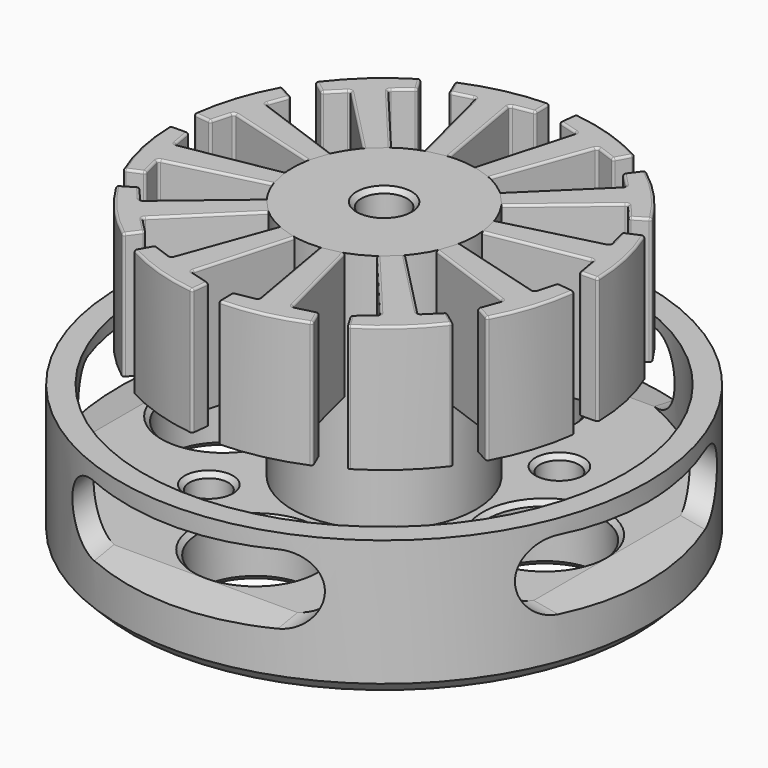
from build123d import *

# Parameters (mm, degrees)
F0_R      = 11.5
F1_DEPTH  = 6
F3_SIZE   = 0.5
F4_R      = 10.5
F5_DEPTH  = 3.5
F2_R      = 1
F6_DEPTH  = 6.001
F7_R      = 2.5
F8_DEPTH  = 6.001
F9_R      = 0.85
F10_DEPTH = 6.001
F11_SIZE  = 0.2
F12_R     = 4
F13_DEPTH = 13
F14_DEPTH = 13.001
F15_SIZE  = 0.2
F17_DEPTH = 5.5
F22_DEPTH = 5
F26_DEPTH = 5
F30_DEPTH = 5
F34_DEPTH = 5
F35_R     = 0.1
F35_2_R   = 0.1
F35_3_R   = 0.1
F35_4_R   = 0.1
F35_5_R   = 0.1
F35_6_R   = 0.1
F35_7_R   = 0.1
F35_8_R   = 0.1
F35_9_R   = 0.1
F35_10_R  = 0.1
F35_11_R  = 0.1
F35_12_R  = 0.1


with BuildPart() as f1:
    # F0 (on Top) → F1 (new body)
    with BuildSketch(Plane.XY):
        Circle(F0_R)
    extrude(amount=F1_DEPTH)

    # F3
    f3_edges = [f1.edges().sort_by_distance(p)[0] for p in [
        (-11.5, 0, 0),
    ]]
    chamfer(f3_edges, length=F3_SIZE)

    # F4 (on face) → F5 (cut)
    with BuildSketch(Plane.XY.offset(6)):
        Circle(F4_R)
    extrude(amount=-F5_DEPTH, mode=Mode.SUBTRACT)

    # F2 (on face) → F6 (cut, through all)
    with BuildSketch(Plane(origin=(0, 0, 0), x_dir=(1, 0, 0), z_dir=(0, 0, -1))):
        Circle(F2_R)
    extrude(amount=-F6_DEPTH, mode=Mode.SUBTRACT)

    # F7 (on face) → F8 (cut, through all)
    with BuildSketch(Plane(origin=(0, 0, 0), x_dir=(1, 0, 0), z_dir=(0, 0, -1))):
        with Locations((0, 7)):
            Circle(F7_R)
        with Locations((-7, 0)):
            Circle(F7_R)
        with Locations((0, -7)):
            Circle(F7_R)
        with Locations((7, 0)):
            Circle(F7_R)
    extrude(amount=-F8_DEPTH, mode=Mode.SUBTRACT)

    # F9 (on face) → F10 (cut, through all)
    with BuildSketch(Plane(origin=(0, 0, 0), x_dir=(1, 0, 0), z_dir=(0, 0, -1))):
        with Locations((-4.2426406871, 4.2426406871)):
            Circle(F9_R)
        with BuildLine():
            ThreePointArc((6.5068542495, 5.6568542495), (5.331573332, 6.4421518521), (5.0558134855, 5.0558134855))
            ThreePointArc((5.0558134855, 5.0558134855), (5.982135167, 4.8715566469), (6.5068542495, 5.6568542495))
        make_face()
        with BuildLine():
            ThreePointArc((3.6415999231, -3.6415999231), (3.9173597696, -5.0279382898), (5.0926406871, -4.2426406871))
            ThreePointArc((5.0926406871, -4.2426406871), (4.5679216046, -3.4573430845), (3.6415999231, -3.6415999231))
        make_face()
        with Locations((-5.6568542495, -5.6568542495)):
            Circle(F9_R)
    extrude(amount=-F10_DEPTH, mode=Mode.SUBTRACT)

    # F11
    f11_edges = [f1.edges().sort_by_distance(p)[0] for p in [
        (-1, 0, 0),
        (4.843681, 4.843681, 0),
        (4.5, 0, 0),
        (-2.5, -7, 0),
        (-5.092641, -4.242641, 0),
        (-9.5, 0, 0),
        (-2.5, 7, 0),
        (-9.5, 0, 2.5),
        (-5.092641, -4.242641, 2.5),
        (-2.5, 7, 2.5),
        (4.843681, 4.843681, 2.5),
        (4.5, 0, 2.5),
        (-2.5, -7, 2.5),
        (-6.506854, 5.656854, 0),
        (6.257895, -6.257895, 0),
        (6.257895, -6.257895, 2.5),
        (-6.506854, 5.656854, 2.5),
    ]]
    chamfer(f11_edges, length=F11_SIZE)

    # F12 (on face) → F13 (join)
    with BuildSketch(Plane(origin=(0, 0, 0), x_dir=(1, 0, 0), z_dir=(0, 0, -1))):
        Circle(F12_R)
    extrude(amount=-F13_DEPTH)

    # F2 (on face) → F14 (cut, through all)
    with BuildSketch(Plane(origin=(0, 0, 0), x_dir=(1, 0, 0), z_dir=(0, 0, -1))):
        Circle(F2_R)
    extrude(amount=-F14_DEPTH, mode=Mode.SUBTRACT)

    # F15
    f15_edges = [f1.edges().sort_by_distance(p)[0] for p in [
        (-1, 0, 0),
        (-1, 0, 13),
    ]]
    chamfer(f15_edges, length=F15_SIZE)

    # F21 (on offset) → F22 (cut)
    with BuildSketch(Plane(origin=(-11.8176930361, 0, -2.083778132), x_dir=(0, 1, 0), z_dir=(0.984807753, 0, 0.1736481777))):
        with BuildLine():
            Line((-4, 4.15), (4, 4.15))
            ThreePointArc((4, 4.15), (5.5, 5.65), (4, 7.15))
            Line((4, 7.15), (-4, 7.15))
            ThreePointArc((-4, 7.15), (-5.5, 5.65), (-4, 4.15))
        make_face()
    extrude(amount=F22_DEPTH, mode=Mode.SUBTRACT)

    # F25 (on offset) → F26 (cut)
    with BuildSketch(Plane(origin=(11.8176930361, 0, -2.083778132), x_dir=(0, -1, 0), z_dir=(-0.984807753, 0, 0.1736481777))):
        with BuildLine():
            Line((4, 7.15), (-4, 7.15))
            ThreePointArc((-4, 7.15), (-5.5, 5.65), (-4, 4.15))
            Line((-4, 4.15), (4, 4.15))
            ThreePointArc((4, 4.15), (5.5, 5.65), (4, 7.15))
        make_face()
    extrude(amount=F26_DEPTH, mode=Mode.SUBTRACT)

    # F29 (on offset) → F30 (cut)
    with BuildSketch(Plane(origin=(0, 11.8176930361, -2.083778132), x_dir=(-1, 0, 0), z_dir=(0, 0.984807753, -0.1736481777))):
        with BuildLine():
            Line((4, 7.15), (-4, 7.15))
            ThreePointArc((-4, 7.15), (-5.5, 5.65), (-4, 4.15))
            Line((-4, 4.15), (4, 4.15))
            ThreePointArc((4, 4.15), (5.5, 5.65), (4, 7.15))
        make_face()
    extrude(amount=-F30_DEPTH, mode=Mode.SUBTRACT)

    # F33 (on offset) → F34 (cut)
    with BuildSketch(Plane(origin=(0, -11.8176930361, -2.083778132), x_dir=(-1, 0, 0), z_dir=(0, 0.984807753, 0.1736481777))):
        with BuildLine():
            Line((-4, 4.15), (4, 4.15))
            ThreePointArc((4, 4.15), (5.5, 5.65), (4, 7.15))
            Line((4, 7.15), (-4, 7.15))
            ThreePointArc((-4, 7.15), (-5.5, 5.65), (-4, 4.15))
        make_face()
    extrude(amount=F34_DEPTH, mode=Mode.SUBTRACT)


with BuildPart() as f17:
    # F16 (on face) → F17 (new body)
    with BuildSketch(Plane.XY.offset(13)):
        with BuildLine():
            Line((-7.9774256232, 1.8979022856), (-3.8383343156, 0.7326026899))
            Line((-3.8383343156, 0.7326026899), (-3.5438690521, 1.6463624029))
            Line((-3.5438690521, 1.6463624029), (-7.5845473215, 3.1170490192))
            ThreePointArc((-7.5845473215, 3.1170490192), (-7.6409760858, 3.1687564551), (-7.6443145692, 3.2452202956))
            Line((-7.6443145692, 3.2452202956), (-7.3656331018, 4.0108913345))
            ThreePointArc((-7.3656331018, 4.0108913345), (-7.3658909937, 4.0799957713), (-7.4109006537, 4.1324325922))
            Line((-7.4109006537, 4.1324325922), (-7.9473912431, 4.4315880256))
            ThreePointArc((-7.9473912431, 4.4315880256), (-8.0239419572, 4.440292694), (-8.0839621066, 4.3919877799))
            ThreePointArc((-8.0839621066, 4.3919877799), (-8.7565475016, 2.8218568092), (-9.127280057, 1.1544517141))
            ThreePointArc((-9.127280057, 1.1544517141), (-9.1067574042, 1.0801913358), (-9.0395279067, 1.0425618561))
            Line((-9.0395279067, 1.0425618561), (-8.4293123647, 0.972183463))
            ThreePointArc((-8.4293123647, 0.972183463), (-8.3621549496, 0.9884736834), (-8.3215970119, 1.0444249423))
            Line((-8.3215970119, 1.0444249423), (-8.1007835512, 1.8287443388))
            ThreePointArc((-8.1007835512, 1.8287443388), (-8.053427667, 1.8888715756), (-7.9774256232, 1.8979022856))
        make_face()
    extrude(amount=-F17_DEPTH)

    # F35#2
    f35_2_edges = [f17.edges().sort_by_distance(p)[0] for p in [
        (-9.106757, 1.080191, 13),
        (-8.73442, 1.007373, 13),
        (-8.362155, 0.988474, 13),
        (-8.21119, 1.436585, 13),
        (-8.053428, 1.888872, 13),
        (-5.90788, 1.315252, 13),
        (-3.691102, 1.189483, 13),
        (-5.564208, 2.381706, 13),
        (-7.640976, 3.168756, 13),
        (-7.504974, 3.628056, 13),
        (-7.365891, 4.079996, 13),
        (-7.679146, 4.28201, 13),
        (-8.023942, 4.440293, 13),
        (-8.756548, 2.821857, 13),
    ]]
    fillet(f35_2_edges, radius=F35_2_R)


with BuildPart() as f17b:
    # F16 (on face) → F17, piece 2 (new body)
    with BuildSketch(Plane.XY.offset(13)):
        with BuildLine():
            Line((-3.8922618282, -0.3461428613), (-8.1269351662, -1.0928300253))
            ThreePointArc((-8.1269351662, -1.0928300253), (-8.2016576276, -1.0762644544), (-8.2427807593, -1.0117140678))
            Line((-8.2427807593, -1.0117140678), (-8.3842710484, -0.2092827634))
            ThreePointArc((-8.3842710484, -0.2092827634), (-8.4190466076, -0.1495655116), (-8.4842445271, -0.1266587226))
            Line((-8.4842445271, -0.1266587226), (-9.0984367232, -0.1358278123))
            ThreePointArc((-9.0984367232, -0.1358278123), (-9.1690839204, -0.1665647053), (-9.1969104375, -0.2384080628))
            ThreePointArc((-9.1969104375, -0.2384080628), (-8.9943209905, -1.9344740682), (-8.4816822539, -3.5638555167))
            ThreePointArc((-8.4816822539, -3.5638555167), (-8.426778926, -3.6179055644), (-8.3497417335, -3.616878901))
            Line((-8.3497417335, -3.616878901), (-7.7860903758, -3.3727206062))
            ThreePointArc((-7.7860903758, -3.3727206062), (-7.7360754584, -3.325034154), (-7.7289268835, -3.2562999736))
            Line((-7.7289268835, -3.2562999736), (-7.9298565153, -2.4666527212))
            ThreePointArc((-7.9298565153, -2.4666527212), (-7.9189087349, -2.3909030646), (-7.8576043893, -2.3450812184))
            Line((-7.8576043893, -2.3450812184), (-3.6903963705, -1.2847146175))
            Line((-3.6903963705, -1.2847146175), (-3.8922618282, -0.3461428613))
        make_face()
    extrude(amount=-F17_DEPTH)

    # F35
    f35_edges = [f17b.edges().sort_by_distance(p)[0] for p in [
        (-3.791329, -0.815429, 13),
        (-6.009598, -0.719486, 13),
        (-8.201658, -1.076264, 13),
        (-8.313526, -0.610498, 13),
        (-8.419047, -0.149566, 13),
        (-8.791341, -0.131243, 13),
        (-9.169084, -0.166565, 13),
        (-8.994321, -1.934474, 13),
        (-8.426779, -3.617906, 13),
        (-8.067916, -3.4948, 13),
        (-7.736075, -3.325034, 13),
        (-7.829392, -2.861476, 13),
        (-7.918909, -2.390903, 13),
        (-5.774, -1.814898, 13),
    ]]
    fillet(f35_edges, radius=F35_R)


with BuildPart() as f17c:
    # F16 (on face) → F17, piece 3 (new body)
    with BuildSketch(Plane.XY.offset(13)):
        with BuildLine():
            Line((-3.1977261908, -2.2458994254), (-6.4917172962, -5.009886147))
            ThreePointArc((-6.4917172962, -5.009886147), (-6.5647116314, -5.0329011725), (-6.6326005015, -4.9975604637))
            Line((-6.6326005015, -4.9975604637), (-7.1563503384, -4.3733797139))
            ThreePointArc((-7.1563503384, -4.3733797139), (-7.2163254821, -4.3390508364), (-7.2842419311, -4.351811935))
            Line((-7.2842419311, -4.351811935), (-7.8115634308, -4.6668486976))
            ThreePointArc((-7.8115634308, -4.6668486976), (-7.8573772518, -4.7287912264), (-7.8455540438, -4.8049226576))
            ThreePointArc((-7.8455540438, -4.8049226576), (-6.8220734334, -6.1724641813), (-5.5634245404, -7.3272305398))
            ThreePointArc((-5.5634245404, -7.3272305398), (-5.4888518398, -7.3465875902), (-5.4226490057, -7.3071798774))
            Line((-5.4226490057, -7.3071798774), (-5.0565917585, -6.8139069128))
            ThreePointArc((-5.0565917585, -6.8139069128), (-5.0371207956, -6.747601775), (-5.0652970383, -6.6845019412))
            Line((-5.0652970383, -6.6845019412), (-5.63413083, -6.1011121765))
            ThreePointArc((-5.63413083, -6.1011121765), (-5.6625246024, -6.0300371594), (-5.6323444048, -5.9597021037))
            Line((-5.6323444048, -5.9597021037), (-2.5536196982, -2.9577936806))
            Line((-2.5536196982, -2.9577936806), (-3.1977261908, -2.2458994254))
        make_face()
    extrude(amount=-F17_DEPTH)

    # F35#12
    f35_12_edges = [f17c.edges().sort_by_distance(p)[0] for p in [
        (-2.875673, -2.601847, 13),
        (-4.844722, -3.627893, 13),
        (-6.564712, -5.032901, 13),
        (-6.894475, -4.68547, 13),
        (-7.216325, -4.339051, 13),
        (-7.547903, -4.50933, 13),
        (-7.857377, -4.728791, 13),
        (-6.822073, -6.172464, 13),
        (-5.488852, -7.346588, 13),
        (-5.23962, -7.060543, 13),
        (-5.037121, -6.747602, 13),
        (-5.349714, -6.392807, 13),
        (-5.662525, -6.030037, 13),
        (-4.092982, -4.458748, 13),
    ]]
    fillet(f35_12_edges, radius=F35_12_R)


with BuildPart() as f17d:
    # F16 (on face) → F17, piece 4 (new body)
    with BuildSketch(Plane.XY.offset(13)):
        with BuildLine():
            Line((-1.6463624029, -3.5438690521), (-3.1170490192, -7.5845473215))
            ThreePointArc((-3.1170490192, -7.5845473215), (-3.1687564551, -7.6409760858), (-3.2452202956, -7.6443145692))
            Line((-3.2452202956, -7.6443145692), (-4.0108913345, -7.3656331018))
            ThreePointArc((-4.0108913345, -7.3656331018), (-4.0799957713, -7.3658909937), (-4.1324325922, -7.4109006537))
            Line((-4.1324325922, -7.4109006537), (-4.4315880256, -7.9473912431))
            ThreePointArc((-4.4315880256, -7.9473912431), (-4.440292694, -8.0239419572), (-4.3919877799, -8.0839621066))
            ThreePointArc((-4.3919877799, -8.0839621066), (-2.8218568092, -8.7565475016), (-1.1544517141, -9.127280057))
            ThreePointArc((-1.1544517141, -9.127280057), (-1.0801913358, -9.1067574042), (-1.0425618561, -9.0395279067))
            Line((-1.0425618561, -9.0395279067), (-0.972183463, -8.4293123647))
            ThreePointArc((-0.972183463, -8.4293123647), (-0.9884736834, -8.3621549496), (-1.0444249423, -8.3215970119))
            Line((-1.0444249423, -8.3215970119), (-1.8287443388, -8.1007835512))
            ThreePointArc((-1.8287443388, -8.1007835512), (-1.8888715756, -8.053427667), (-1.8979022856, -7.9774256232))
            Line((-1.8979022856, -7.9774256232), (-0.7326026899, -3.8383343156))
            Line((-0.7326026899, -3.8383343156), (-1.6463624029, -3.5438690521))
        make_face()
    extrude(amount=-F17_DEPTH)

    # F35#11
    f35_11_edges = [f17d.edges().sort_by_distance(p)[0] for p in [
        (-1.189483, -3.691102, 13),
        (-2.381706, -5.564208, 13),
        (-3.168756, -7.640976, 13),
        (-3.628056, -7.504974, 13),
        (-4.079996, -7.365891, 13),
        (-4.28201, -7.679146, 13),
        (-4.440293, -8.023942, 13),
        (-2.821857, -8.756548, 13),
        (-1.080191, -9.106757, 13),
        (-1.007373, -8.73442, 13),
        (-0.988474, -8.362155, 13),
        (-1.436585, -8.21119, 13),
        (-1.888872, -8.053428, 13),
        (-1.315252, -5.90788, 13),
    ]]
    fillet(f35_11_edges, radius=F35_11_R)


with BuildPart() as f17e:
    # F16 (on face) → F17, piece 5 (new body)
    with BuildSketch(Plane.XY.offset(13)):
        with BuildLine():
            Line((0.3461428613, -3.8922618282), (1.0928300253, -8.1269351662))
            ThreePointArc((1.0928300253, -8.1269351662), (1.0762644544, -8.2016576276), (1.0117140678, -8.2427807593))
            Line((1.0117140678, -8.2427807593), (0.2092827634, -8.3842710484))
            ThreePointArc((0.2092827634, -8.3842710484), (0.1495655116, -8.4190466076), (0.1266587226, -8.4842445271))
            Line((0.1266587226, -8.4842445271), (0.1358278123, -9.0984367232))
            ThreePointArc((0.1358278123, -9.0984367232), (0.1665647053, -9.1690839204), (0.2384080628, -9.1969104375))
            ThreePointArc((0.2384080628, -9.1969104375), (1.9344740682, -8.9943209905), (3.5638555167, -8.4816822539))
            ThreePointArc((3.5638555167, -8.4816822539), (3.6179055644, -8.426778926), (3.616878901, -8.3497417335))
            Line((3.616878901, -8.3497417335), (3.3727206062, -7.7860903758))
            ThreePointArc((3.3727206062, -7.7860903758), (3.325034154, -7.7360754584), (3.2562999736, -7.7289268835))
            Line((3.2562999736, -7.7289268835), (2.4666527212, -7.9298565153))
            ThreePointArc((2.4666527212, -7.9298565153), (2.3909030646, -7.9189087349), (2.3450812184, -7.8576043893))
            Line((2.3450812184, -7.8576043893), (1.2847146175, -3.6903963705))
            Line((1.2847146175, -3.6903963705), (0.3461428613, -3.8922618282))
        make_face()
    extrude(amount=-F17_DEPTH)

    # F35#10
    f35_10_edges = [f17e.edges().sort_by_distance(p)[0] for p in [
        (0.815429, -3.791329, 13),
        (0.719486, -6.009598, 13),
        (1.076264, -8.201658, 13),
        (0.610498, -8.313526, 13),
        (0.149566, -8.419047, 13),
        (0.131243, -8.791341, 13),
        (0.166565, -9.169084, 13),
        (1.934474, -8.994321, 13),
        (3.617906, -8.426779, 13),
        (3.4948, -8.067916, 13),
        (3.325034, -7.736075, 13),
        (2.861476, -7.829392, 13),
        (2.390903, -7.918909, 13),
        (1.814898, -5.774, 13),
    ]]
    fillet(f35_10_edges, radius=F35_10_R)


with BuildPart() as f17f:
    # F16 (on face) → F17, piece 6 (new body)
    with BuildSketch(Plane.XY.offset(13)):
        with BuildLine():
            Line((2.2458994254, -3.1977261908), (5.009886147, -6.4917172962))
            ThreePointArc((5.009886147, -6.4917172962), (5.0329011725, -6.5647116314), (4.9975604637, -6.6326005015))
            Line((4.9975604637, -6.6326005015), (4.3733797139, -7.1563503384))
            ThreePointArc((4.3733797139, -7.1563503384), (4.3390508364, -7.2163254821), (4.351811935, -7.2842419311))
            Line((4.351811935, -7.2842419311), (4.6668486976, -7.8115634308))
            ThreePointArc((4.6668486976, -7.8115634308), (4.7287912264, -7.8573772518), (4.8049226576, -7.8455540438))
            ThreePointArc((4.8049226576, -7.8455540438), (6.1724641813, -6.8220734334), (7.3272305398, -5.5634245404))
            ThreePointArc((7.3272305398, -5.5634245404), (7.3465875902, -5.4888518398), (7.3071798774, -5.4226490057))
            Line((7.3071798774, -5.4226490057), (6.8139069128, -5.0565917585))
            ThreePointArc((6.8139069128, -5.0565917585), (6.747601775, -5.0371207956), (6.6845019412, -5.0652970383))
            Line((6.6845019412, -5.0652970383), (6.1011121765, -5.63413083))
            ThreePointArc((6.1011121765, -5.63413083), (6.0300371594, -5.6625246024), (5.9597021037, -5.6323444048))
            Line((5.9597021037, -5.6323444048), (2.9577936806, -2.5536196982))
            Line((2.9577936806, -2.5536196982), (2.2458994254, -3.1977261908))
        make_face()
    extrude(amount=-F17_DEPTH)

    # F35#9
    f35_9_edges = [f17f.edges().sort_by_distance(p)[0] for p in [
        (2.601847, -2.875673, 13),
        (3.627893, -4.844722, 13),
        (5.032901, -6.564712, 13),
        (4.68547, -6.894475, 13),
        (4.339051, -7.216325, 13),
        (4.50933, -7.547903, 13),
        (4.728791, -7.857377, 13),
        (6.172464, -6.822073, 13),
        (7.346588, -5.488852, 13),
        (7.060543, -5.23962, 13),
        (6.747602, -5.037121, 13),
        (6.392807, -5.349714, 13),
        (6.030037, -5.662525, 13),
        (4.458748, -4.092982, 13),
    ]]
    fillet(f35_9_edges, radius=F35_9_R)


with BuildPart() as f17g:
    # F16 (on face) → F17, piece 7 (new body)
    with BuildSketch(Plane.XY.offset(13)):
        with BuildLine():
            Line((3.5438690521, -1.6463624029), (7.5845473215, -3.1170490192))
            ThreePointArc((7.5845473215, -3.1170490192), (7.6409760858, -3.1687564551), (7.6443145692, -3.2452202956))
            Line((7.6443145692, -3.2452202956), (7.3656331018, -4.0108913345))
            ThreePointArc((7.3656331018, -4.0108913345), (7.3658909937, -4.0799957713), (7.4109006537, -4.1324325922))
            Line((7.4109006537, -4.1324325922), (7.9473912431, -4.4315880256))
            ThreePointArc((7.9473912431, -4.4315880256), (8.0239419572, -4.440292694), (8.0839621066, -4.3919877799))
            ThreePointArc((8.0839621066, -4.3919877799), (8.7565475016, -2.8218568092), (9.127280057, -1.1544517141))
            ThreePointArc((9.127280057, -1.1544517141), (9.1067574042, -1.0801913358), (9.0395279067, -1.0425618561))
            Line((9.0395279067, -1.0425618561), (8.4293123647, -0.972183463))
            ThreePointArc((8.4293123647, -0.972183463), (8.3621549496, -0.9884736834), (8.3215970119, -1.0444249423))
            Line((8.3215970119, -1.0444249423), (8.1007835512, -1.8287443388))
            ThreePointArc((8.1007835512, -1.8287443388), (8.053427667, -1.8888715756), (7.9774256232, -1.8979022856))
            Line((7.9774256232, -1.8979022856), (3.8383343156, -0.7326026899))
            Line((3.8383343156, -0.7326026899), (3.5438690521, -1.6463624029))
        make_face()
    extrude(amount=-F17_DEPTH)

    # F35#8
    f35_8_edges = [f17g.edges().sort_by_distance(p)[0] for p in [
        (3.691102, -1.189483, 13),
        (5.564208, -2.381706, 13),
        (7.640976, -3.168756, 13),
        (7.504974, -3.628056, 13),
        (7.365891, -4.079996, 13),
        (7.679146, -4.28201, 13),
        (8.023942, -4.440293, 13),
        (8.756548, -2.821857, 13),
        (9.106757, -1.080191, 13),
        (8.73442, -1.007373, 13),
        (8.362155, -0.988474, 13),
        (8.21119, -1.436585, 13),
        (8.053428, -1.888872, 13),
        (5.90788, -1.315252, 13),
    ]]
    fillet(f35_8_edges, radius=F35_8_R)


with BuildPart() as f17h:
    # F16 (on face) → F17, piece 8 (new body)
    with BuildSketch(Plane.XY.offset(13)):
        with BuildLine():
            Line((3.8922618282, 0.3461428613), (8.1269351662, 1.0928300253))
            ThreePointArc((8.1269351662, 1.0928300253), (8.2016576276, 1.0762644544), (8.2427807593, 1.0117140678))
            Line((8.2427807593, 1.0117140678), (8.3842710484, 0.2092827634))
            ThreePointArc((8.3842710484, 0.2092827634), (8.4190466076, 0.1495655116), (8.4842445271, 0.1266587226))
            Line((8.4842445271, 0.1266587226), (9.0984367232, 0.1358278123))
            ThreePointArc((9.0984367232, 0.1358278123), (9.1690839204, 0.1665647053), (9.1969104375, 0.2384080628))
            ThreePointArc((9.1969104375, 0.2384080628), (8.9943209905, 1.9344740682), (8.4816822539, 3.5638555167))
            ThreePointArc((8.4816822539, 3.5638555167), (8.426778926, 3.6179055644), (8.3497417335, 3.616878901))
            Line((8.3497417335, 3.616878901), (7.7860903758, 3.3727206062))
            ThreePointArc((7.7860903758, 3.3727206062), (7.7360754584, 3.325034154), (7.7289268835, 3.2562999736))
            Line((7.7289268835, 3.2562999736), (7.9298565153, 2.4666527212))
            ThreePointArc((7.9298565153, 2.4666527212), (7.9189087349, 2.3909030646), (7.8576043893, 2.3450812184))
            Line((7.8576043893, 2.3450812184), (3.6903963705, 1.2847146175))
            Line((3.6903963705, 1.2847146175), (3.8922618282, 0.3461428613))
        make_face()
    extrude(amount=-F17_DEPTH)

    # F35#7
    f35_7_edges = [f17h.edges().sort_by_distance(p)[0] for p in [
        (3.791329, 0.815429, 13),
        (6.009598, 0.719486, 13),
        (8.201658, 1.076264, 13),
        (8.313526, 0.610498, 13),
        (8.419047, 0.149566, 13),
        (8.791341, 0.131243, 13),
        (9.169084, 0.166565, 13),
        (8.994321, 1.934474, 13),
        (8.426779, 3.617906, 13),
        (8.067916, 3.4948, 13),
        (7.736075, 3.325034, 13),
        (7.829392, 2.861476, 13),
        (7.918909, 2.390903, 13),
        (5.774, 1.814898, 13),
    ]]
    fillet(f35_7_edges, radius=F35_7_R)


with BuildPart() as f17i:
    # F16 (on face) → F17, piece 9 (new body)
    with BuildSketch(Plane.XY.offset(13)):
        with BuildLine():
            Line((3.1977261908, 2.2458994254), (6.4917172962, 5.009886147))
            ThreePointArc((6.4917172962, 5.009886147), (6.5647116314, 5.0329011725), (6.6326005015, 4.9975604637))
            Line((6.6326005015, 4.9975604637), (7.1563503384, 4.3733797139))
            ThreePointArc((7.1563503384, 4.3733797139), (7.2163254821, 4.3390508364), (7.2842419311, 4.351811935))
            Line((7.2842419311, 4.351811935), (7.8115634308, 4.6668486976))
            ThreePointArc((7.8115634308, 4.6668486976), (7.8573772518, 4.7287912264), (7.8455540438, 4.8049226576))
            ThreePointArc((7.8455540438, 4.8049226576), (6.8220734334, 6.1724641813), (5.5634245404, 7.3272305398))
            ThreePointArc((5.5634245404, 7.3272305398), (5.4888518398, 7.3465875902), (5.4226490057, 7.3071798774))
            Line((5.4226490057, 7.3071798774), (5.0565917585, 6.8139069128))
            ThreePointArc((5.0565917585, 6.8139069128), (5.0371207956, 6.747601775), (5.0652970383, 6.6845019412))
            Line((5.0652970383, 6.6845019412), (5.63413083, 6.1011121765))
            ThreePointArc((5.63413083, 6.1011121765), (5.6625246024, 6.0300371594), (5.6323444048, 5.9597021037))
            Line((5.6323444048, 5.9597021037), (2.5536196982, 2.9577936806))
            Line((2.5536196982, 2.9577936806), (3.1977261908, 2.2458994254))
        make_face()
    extrude(amount=-F17_DEPTH)

    # F35#6
    f35_6_edges = [f17i.edges().sort_by_distance(p)[0] for p in [
        (2.875673, 2.601847, 13),
        (4.844722, 3.627893, 13),
        (6.564712, 5.032901, 13),
        (6.894475, 4.68547, 13),
        (7.216325, 4.339051, 13),
        (7.547903, 4.50933, 13),
        (7.857377, 4.728791, 13),
        (6.822073, 6.172464, 13),
        (5.488852, 7.346588, 13),
        (5.23962, 7.060543, 13),
        (5.037121, 6.747602, 13),
        (5.349714, 6.392807, 13),
        (5.662525, 6.030037, 13),
        (4.092982, 4.458748, 13),
    ]]
    fillet(f35_6_edges, radius=F35_6_R)


with BuildPart() as f17j:
    # F16 (on face) → F17, piece 10 (new body)
    with BuildSketch(Plane.XY.offset(13)):
        with BuildLine():
            Line((1.6463624029, 3.5438690521), (3.1170490192, 7.5845473215))
            ThreePointArc((3.1170490192, 7.5845473215), (3.1687564551, 7.6409760858), (3.2452202956, 7.6443145692))
            Line((3.2452202956, 7.6443145692), (4.0108913345, 7.3656331018))
            ThreePointArc((4.0108913345, 7.3656331018), (4.0799957713, 7.3658909937), (4.1324325922, 7.4109006537))
            Line((4.1324325922, 7.4109006537), (4.4315880256, 7.9473912431))
            ThreePointArc((4.4315880256, 7.9473912431), (4.440292694, 8.0239419572), (4.3919877799, 8.0839621066))
            ThreePointArc((4.3919877799, 8.0839621066), (2.8218568092, 8.7565475016), (1.1544517141, 9.127280057))
            ThreePointArc((1.1544517141, 9.127280057), (1.0801913358, 9.1067574042), (1.0425618561, 9.0395279067))
            Line((1.0425618561, 9.0395279067), (0.972183463, 8.4293123647))
            ThreePointArc((0.972183463, 8.4293123647), (0.9884736834, 8.3621549496), (1.0444249423, 8.3215970119))
            Line((1.0444249423, 8.3215970119), (1.8287443388, 8.1007835512))
            ThreePointArc((1.8287443388, 8.1007835512), (1.8888715756, 8.053427667), (1.8979022856, 7.9774256232))
            Line((1.8979022856, 7.9774256232), (0.7326026899, 3.8383343156))
            Line((0.7326026899, 3.8383343156), (1.6463624029, 3.5438690521))
        make_face()
    extrude(amount=-F17_DEPTH)

    # F35#5
    f35_5_edges = [f17j.edges().sort_by_distance(p)[0] for p in [
        (1.189483, 3.691102, 13),
        (2.381706, 5.564208, 13),
        (3.168756, 7.640976, 13),
        (3.628056, 7.504974, 13),
        (4.079996, 7.365891, 13),
        (4.28201, 7.679146, 13),
        (4.440293, 8.023942, 13),
        (2.821857, 8.756548, 13),
        (1.080191, 9.106757, 13),
        (1.007373, 8.73442, 13),
        (0.988474, 8.362155, 13),
        (1.436585, 8.21119, 13),
        (1.888872, 8.053428, 13),
        (1.315252, 5.90788, 13),
    ]]
    fillet(f35_5_edges, radius=F35_5_R)


with BuildPart() as f17k:
    # F16 (on face) → F17, piece 11 (new body)
    with BuildSketch(Plane.XY.offset(13)):
        with BuildLine():
            Line((-0.3461428613, 3.8922618282), (-1.0928300253, 8.1269351662))
            ThreePointArc((-1.0928300253, 8.1269351662), (-1.0762644544, 8.2016576276), (-1.0117140678, 8.2427807593))
            Line((-1.0117140678, 8.2427807593), (-0.2092827634, 8.3842710484))
            ThreePointArc((-0.2092827634, 8.3842710484), (-0.1495655116, 8.4190466076), (-0.1266587226, 8.4842445271))
            Line((-0.1266587226, 8.4842445271), (-0.1358278123, 9.0984367232))
            ThreePointArc((-0.1358278123, 9.0984367232), (-0.1665647053, 9.1690839204), (-0.2384080628, 9.1969104375))
            ThreePointArc((-0.2384080628, 9.1969104375), (-1.9344740682, 8.9943209905), (-3.5638555167, 8.4816822539))
            ThreePointArc((-3.5638555167, 8.4816822539), (-3.6179055644, 8.426778926), (-3.616878901, 8.3497417335))
            Line((-3.616878901, 8.3497417335), (-3.3727206062, 7.7860903758))
            ThreePointArc((-3.3727206062, 7.7860903758), (-3.325034154, 7.7360754584), (-3.2562999736, 7.7289268835))
            Line((-3.2562999736, 7.7289268835), (-2.4666527212, 7.9298565153))
            ThreePointArc((-2.4666527212, 7.9298565153), (-2.3909030646, 7.9189087349), (-2.3450812184, 7.8576043893))
            Line((-2.3450812184, 7.8576043893), (-1.2847146175, 3.6903963705))
            Line((-1.2847146175, 3.6903963705), (-0.3461428613, 3.8922618282))
        make_face()
    extrude(amount=-F17_DEPTH)

    # F35#4
    f35_4_edges = [f17k.edges().sort_by_distance(p)[0] for p in [
        (-0.815429, 3.791329, 13),
        (-0.719486, 6.009598, 13),
        (-1.076264, 8.201658, 13),
        (-0.610498, 8.313526, 13),
        (-0.149566, 8.419047, 13),
        (-0.131243, 8.791341, 13),
        (-0.166565, 9.169084, 13),
        (-1.934474, 8.994321, 13),
        (-3.617906, 8.426779, 13),
        (-3.4948, 8.067916, 13),
        (-3.325034, 7.736075, 13),
        (-2.861476, 7.829392, 13),
        (-2.390903, 7.918909, 13),
        (-1.814898, 5.774, 13),
    ]]
    fillet(f35_4_edges, radius=F35_4_R)


with BuildPart() as f17l:
    # F16 (on face) → F17, piece 12 (new body)
    with BuildSketch(Plane.XY.offset(13)):
        with BuildLine():
            Line((-2.2458994254, 3.1977261908), (-5.009886147, 6.4917172962))
            ThreePointArc((-5.009886147, 6.4917172962), (-5.0329011725, 6.5647116314), (-4.9975604637, 6.6326005015))
            Line((-4.9975604637, 6.6326005015), (-4.3733797139, 7.1563503384))
            ThreePointArc((-4.3733797139, 7.1563503384), (-4.3390508364, 7.2163254821), (-4.351811935, 7.2842419311))
            Line((-4.351811935, 7.2842419311), (-4.6668486976, 7.8115634308))
            ThreePointArc((-4.6668486976, 7.8115634308), (-4.7287912264, 7.8573772518), (-4.8049226576, 7.8455540438))
            ThreePointArc((-4.8049226576, 7.8455540438), (-6.1724641813, 6.8220734334), (-7.3272305398, 5.5634245404))
            ThreePointArc((-7.3272305398, 5.5634245404), (-7.3465875902, 5.4888518398), (-7.3071798774, 5.4226490057))
            Line((-7.3071798774, 5.4226490057), (-6.8139069128, 5.0565917585))
            ThreePointArc((-6.8139069128, 5.0565917585), (-6.747601775, 5.0371207956), (-6.6845019412, 5.0652970383))
            Line((-6.6845019412, 5.0652970383), (-6.1011121765, 5.63413083))
            ThreePointArc((-6.1011121765, 5.63413083), (-6.0300371594, 5.6625246024), (-5.9597021037, 5.6323444048))
            Line((-5.9597021037, 5.6323444048), (-2.9577936806, 2.5536196982))
            Line((-2.9577936806, 2.5536196982), (-2.2458994254, 3.1977261908))
        make_face()
    extrude(amount=-F17_DEPTH)

    # F35#3
    f35_3_edges = [f17l.edges().sort_by_distance(p)[0] for p in [
        (-2.601847, 2.875673, 13),
        (-3.627893, 4.844722, 13),
        (-5.032901, 6.564712, 13),
        (-4.68547, 6.894475, 13),
        (-4.339051, 7.216325, 13),
        (-4.50933, 7.547903, 13),
        (-4.728791, 7.857377, 13),
        (-6.172464, 6.822073, 13),
        (-7.346588, 5.488852, 13),
        (-7.060543, 5.23962, 13),
        (-6.747602, 5.037121, 13),
        (-6.392807, 5.349714, 13),
        (-6.030037, 5.662525, 13),
        (-4.458748, 4.092982, 13),
    ]]
    fillet(f35_3_edges, radius=F35_3_R)


solid = Compound([f1.part, f17.part, f17b.part, f17c.part, f17d.part, f17e.part, f17f.part, f17g.part, f17h.part, f17i.part, f17j.part, f17k.part, f17l.part])
